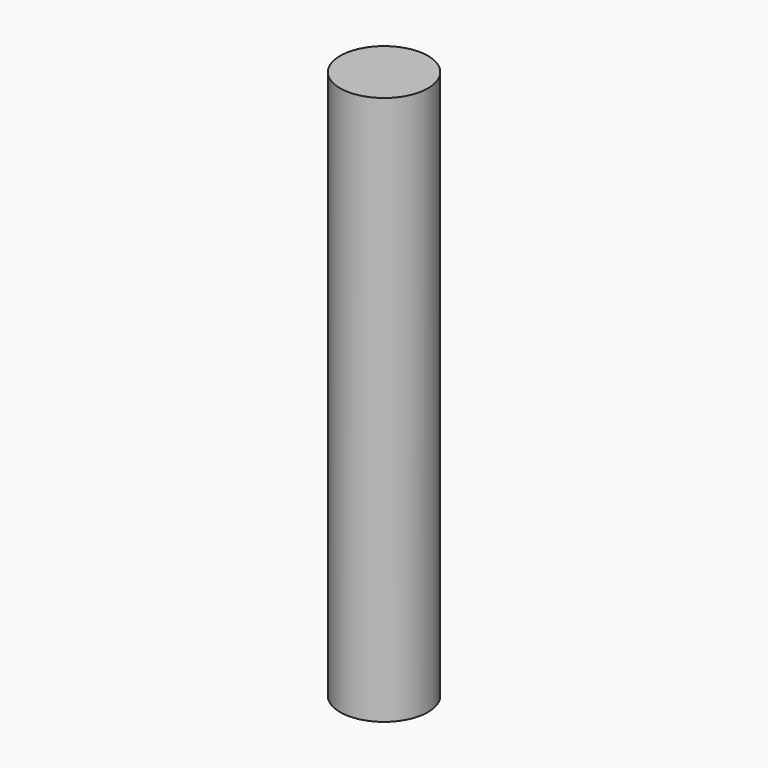
from build123d import *


with BuildPart() as part:
    # Sketch → Revolution (revolve)
    with BuildSketch(Plane.XZ):
        Polygon((0, 50), (0, 25), (1.8, 25), (1.8, 0), (4, 0), (4, 50), align=None)
    revolve(axis=Axis((0, 0, 0), (0, 0, 1)))


solid = part.part
